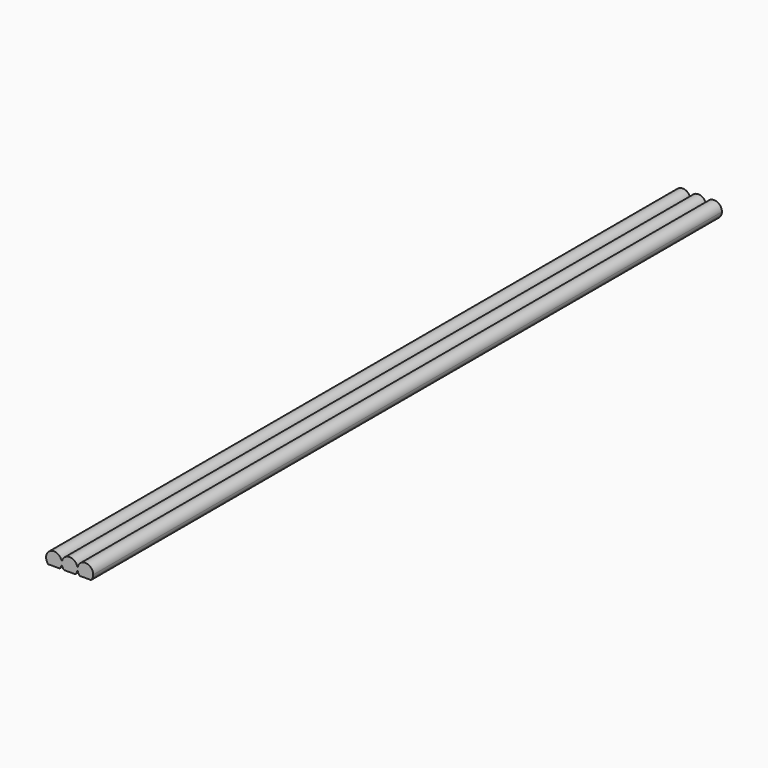
from build123d import *

# Parameters (mm, degrees)
F1_DEPTH = 317.5


with BuildPart() as f1:
    # F0 (on Front) → F1 (new body)
    with BuildSketch(Plane.XZ):
        with BuildLine():
            ThreePointArc((3.0642884432, 0.8311205311), (-1.5592869758, 2.7657275945), (-2.2972373281, -2.1916490728))
            Line((-2.2972373281, -2.1916490728), (2.2972373281, -2.1916490728))
            ThreePointArc((2.2972373281, -2.1916490728), (2.7781759552, -1.5369981658), (3.0772573724, -0.7817365695))
            Line((3.0772573724, -0.7817365695), (2.3432357702, -0.7817365695))
            Line((2.3432357702, -0.7817365695), (2.3432357702, 0.8311205311))
            Line((2.3432357702, 0.8311205311), (3.0642884432, 0.8311205311))
        make_face()
        with BuildLine():
            ThreePointArc((3.2857115568, 0.8311205311), (3.2027995927, 0.4192309584), (3.175, 0))
            ThreePointArc((3.175, 0), (3.1995304193, -0.3939116923), (3.2727426276, -0.7817365695))
            Line((3.2727426276, -0.7817365695), (4.0206070989, -0.7817365695))
            Line((4.0206070989, -0.7817365695), (4.0206070989, 0.8311205311))
            Line((4.0206070989, 0.8311205311), (3.2857115568, 0.8311205311))
        make_face()
        with BuildLine():
            ThreePointArc((3.175, 0), (3.1472004073, 0.4192309584), (3.0642884432, 0.8311205311))
            Line((3.0642884432, 0.8311205311), (2.3432357702, 0.8311205311))
            Line((2.3432357702, 0.8311205311), (2.3432357702, -0.7817365695))
            Line((2.3432357702, -0.7817365695), (3.0772573724, -0.7817365695))
            ThreePointArc((3.0772573724, -0.7817365695), (3.1504695807, -0.3939116923), (3.175, 0))
        make_face()
        with BuildLine():
            Line((3.2857115568, 0.8311205311), (3.0642884432, 0.8311205311))
            ThreePointArc((3.0642884432, 0.8311205311), (3.1472004073, 0.4192309584), (3.175, 0))
            ThreePointArc((3.175, 0), (3.2027995927, 0.4192309584), (3.2857115568, 0.8311205311))
        make_face()
        with BuildLine():
            ThreePointArc((3.175, 0), (3.1504695807, -0.3939116923), (3.0772573724, -0.7817365695))
            Line((3.0772573724, -0.7817365695), (3.2727426276, -0.7817365695))
            ThreePointArc((3.2727426276, -0.7817365695), (3.1995304193, -0.3939116923), (3.175, 0))
        make_face()
        with BuildLine():
            ThreePointArc((3.2727426276, -0.7817365695), (3.5718240448, -1.5369981658), (4.0527626719, -2.1916490728))
            Line((4.0527626719, -2.1916490728), (8.6472373281, -2.1916490728))
            ThreePointArc((8.6472373281, -2.1916490728), (9.1697839759, -1.4592612272), (9.4659095878, -0.6096986472))
            Line((9.4659095878, -0.6096986472), (9.0097114444, -0.6096986472))
            Line((9.0097114444, -0.6096986472), (9.0097114444, 0.6375776138))
            Line((9.0097114444, 0.6375776138), (9.4603247075, 0.6375776138))
            ThreePointArc((9.4603247075, 0.6375776138), (6.4494713507, 3.1734414207), (3.2857115568, 0.8311205311))
            Line((3.2857115568, 0.8311205311), (4.0206070989, 0.8311205311))
            Line((4.0206070989, 0.8311205311), (4.0206070989, -0.7817365695))
            Line((4.0206070989, -0.7817365695), (3.2727426276, -0.7817365695))
        make_face()
        with BuildLine():
            ThreePointArc((9.525, 0), (9.5087897957, 0.3204247599), (9.4603247075, 0.6375776138))
            Line((9.4603247075, 0.6375776138), (9.0097114444, 0.6375776138))
            Line((9.0097114444, 0.6375776138), (9.0097114444, -0.6096986472))
            Line((9.0097114444, -0.6096986472), (9.4659095878, -0.6096986472))
            ThreePointArc((9.4659095878, -0.6096986472), (9.5101928692, -0.3062776996), (9.525, 0))
        make_face()
        with BuildLine():
            ThreePointArc((9.5840904122, -0.6096986472), (9.8802160241, -1.4592612272), (10.4027626719, -2.1916490728))
            Line((10.4027626719, -2.1916490728), (14.9972373281, -2.1916490728))
            ThreePointArc((14.9972373281, -2.1916490728), (15.6474016961, -1.1804440866), (15.875, 0))
            ThreePointArc((15.875, 0), (13.0204247599, 3.1587897957), (9.5896752925, 0.6375776138))
            Line((9.5896752925, 0.6375776138), (10.278493166, 0.6375776138))
            Line((10.278493166, 0.6375776138), (10.278493166, -0.6096986472))
            Line((10.278493166, -0.6096986472), (9.5840904122, -0.6096986472))
        make_face()
        with BuildLine():
            ThreePointArc((9.5896752925, 0.6375776138), (9.5412102043, 0.3204247599), (9.525, 0))
            ThreePointArc((9.525, 0), (9.5398071308, -0.3062776996), (9.5840904122, -0.6096986472))
            Line((9.5840904122, -0.6096986472), (10.278493166, -0.6096986472))
            Line((10.278493166, -0.6096986472), (10.278493166, 0.6375776138))
            Line((10.278493166, 0.6375776138), (9.5896752925, 0.6375776138))
        make_face()
        with BuildLine():
            Line((9.5896752925, 0.6375776138), (9.4603247075, 0.6375776138))
            ThreePointArc((9.4603247075, 0.6375776138), (9.5087897957, 0.3204247599), (9.525, 0))
            ThreePointArc((9.525, 0), (9.5412102043, 0.3204247599), (9.5896752925, 0.6375776138))
        make_face()
        with BuildLine():
            ThreePointArc((9.525, 0), (9.5101928692, -0.3062776996), (9.4659095878, -0.6096986472))
            Line((9.4659095878, -0.6096986472), (9.5840904122, -0.6096986472))
            ThreePointArc((9.5840904122, -0.6096986472), (9.5398071308, -0.3062776996), (9.525, 0))
        make_face()
    extrude(amount=F1_DEPTH)


solid = f1.part
